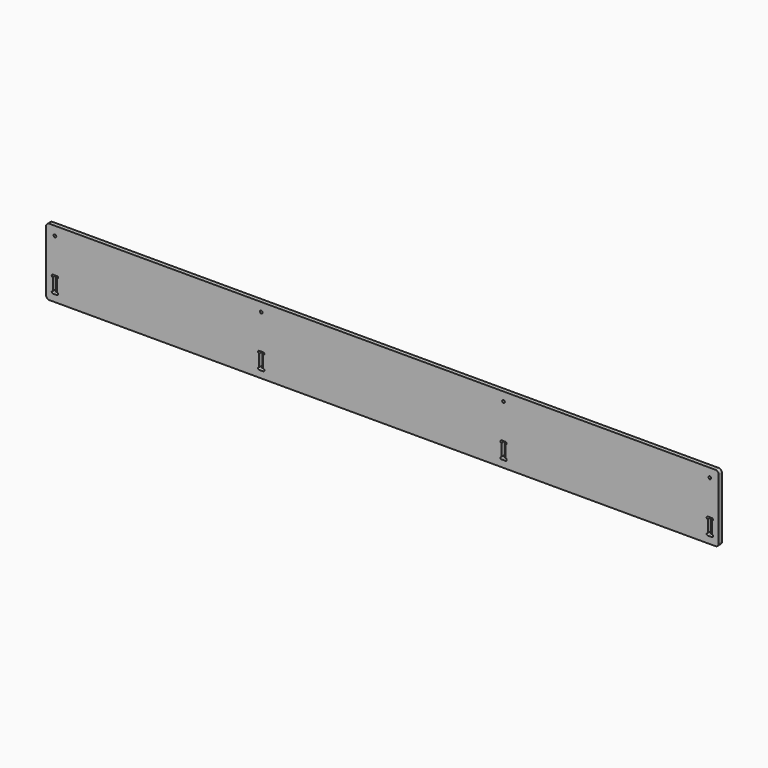
from build123d import *

# Parameters (mm, degrees)
F0_R     = 4
F1_DEPTH = 12


with BuildPart() as f1:
    # F0 (on Front) → F1 (new body)
    with BuildSketch(Plane.XZ):
        with BuildLine():
            Line((1048.804035, 124.303412), (-931.195965, 124.303412))
            ThreePointArc((-931.195965, 124.303412), (-938.267033, 121.37448), (-941.195965, 114.303412))
            Line((-941.195965, 114.303412), (-941.195965, -65.696588))
            ThreePointArc((-941.195965, -65.696588), (-938.267033, -72.767655), (-931.195965, -75.696588))
            Line((-931.195965, -75.696588), (-920.907405, -75.696588))
            Line((-920.907405, -75.696588), (-902.907405, -75.696588))
            Line((-902.907405, -75.696588), (1048.804035, -75.696588))
            ThreePointArc((1048.804035, -75.696588), (1055.875103, -72.767655), (1058.804035, -65.696588))
            Line((1058.804035, -65.696588), (1058.804035, 114.303412))
            ThreePointArc((1058.804035, 114.303412), (1055.875103, 121.37448), (1048.804035, 124.303412))
        make_face()
        with BuildLine():
            ThreePointArc((-920.907405, -12.408028), (-924.407405, -8.908028), (-920.907405, -5.408028))
            Line((-920.907405, -5.408028), (-908.907405, -5.408028))
            ThreePointArc((-908.907405, -5.408028), (-905.407405, -8.908028), (-908.907405, -12.408028))
            Line((-908.907405, -12.408028), (-908.907405, -48.408028))
            ThreePointArc((-908.907405, -48.408028), (-905.407405, -51.908028), (-908.907405, -55.408028))
            Line((-908.907405, -55.408028), (-920.907405, -55.408028))
            ThreePointArc((-920.907405, -55.408028), (-924.407405, -51.908028), (-920.907405, -48.408028))
            Line((-920.907405, -48.408028), (-920.907405, -12.408028))
        make_face(mode=Mode.SUBTRACT)
        with BuildLine():
            Line((-295.484525, -12.408028), (-295.484525, -48.408028))
            ThreePointArc((-295.484525, -48.408028), (-291.984525, -51.908028), (-295.484525, -55.408028))
            Line((-295.484525, -55.408028), (-307.484525, -55.408028))
            ThreePointArc((-307.484525, -55.408028), (-310.984525, -51.908028), (-307.484525, -48.408028))
            Line((-307.484525, -48.408028), (-307.484525, -12.408028))
            ThreePointArc((-307.484525, -12.408028), (-310.984525, -8.908028), (-307.484525, -5.408028))
            Line((-307.484525, -5.408028), (-295.484525, -5.408028))
            ThreePointArc((-295.484525, -5.408028), (-291.984525, -8.908028), (-295.484525, -12.408028))
        make_face(mode=Mode.SUBTRACT)
        with BuildLine():
            ThreePointArc((413.092595, -55.408028), (409.592595, -51.908028), (413.092595, -48.408028))
            Line((413.092595, -48.408028), (413.092595, -12.408028))
            ThreePointArc((413.092595, -12.408028), (409.592595, -8.908028), (413.092595, -5.408028))
            Line((413.092595, -5.408028), (425.092595, -5.408028))
            ThreePointArc((425.092595, -5.408028), (428.592595, -8.908028), (425.092595, -12.408028))
            Line((425.092595, -12.408028), (425.092595, -48.408028))
            ThreePointArc((425.092595, -48.408028), (428.592595, -51.908028), (425.092595, -55.408028))
            Line((425.092595, -55.408028), (413.092595, -55.408028))
        make_face(mode=Mode.SUBTRACT)
        with BuildLine():
            ThreePointArc((1038.515475, -5.408028), (1042.015475, -8.908028), (1038.515475, -12.408028))
            Line((1038.515475, -12.408028), (1038.515475, -48.408028))
            ThreePointArc((1038.515475, -48.408028), (1042.015475, -51.908028), (1038.515475, -55.408028))
            Line((1038.515475, -55.408028), (1026.515475, -55.408028))
            ThreePointArc((1026.515475, -55.408028), (1023.015475, -51.908028), (1026.515475, -48.408028))
            Line((1026.515475, -48.408028), (1026.515475, -12.408028))
            ThreePointArc((1026.515475, -12.408028), (1023.015475, -8.908028), (1026.515475, -5.408028))
            Line((1026.515475, -5.408028), (1038.515475, -5.408028))
        make_face(mode=Mode.SUBTRACT)
        with Locations((-914.907405, 97.928241)):
            Circle(F0_R, mode=Mode.SUBTRACT)
        with Locations((-301.484525, 97.928241)):
            Circle(F0_R, mode=Mode.SUBTRACT)
        with Locations((419.092595, 97.928241)):
            Circle(F0_R, mode=Mode.SUBTRACT)
        with Locations((1032.515475, 97.928241)):
            Circle(F0_R, mode=Mode.SUBTRACT)
    extrude(amount=F1_DEPTH)


solid = f1.part
